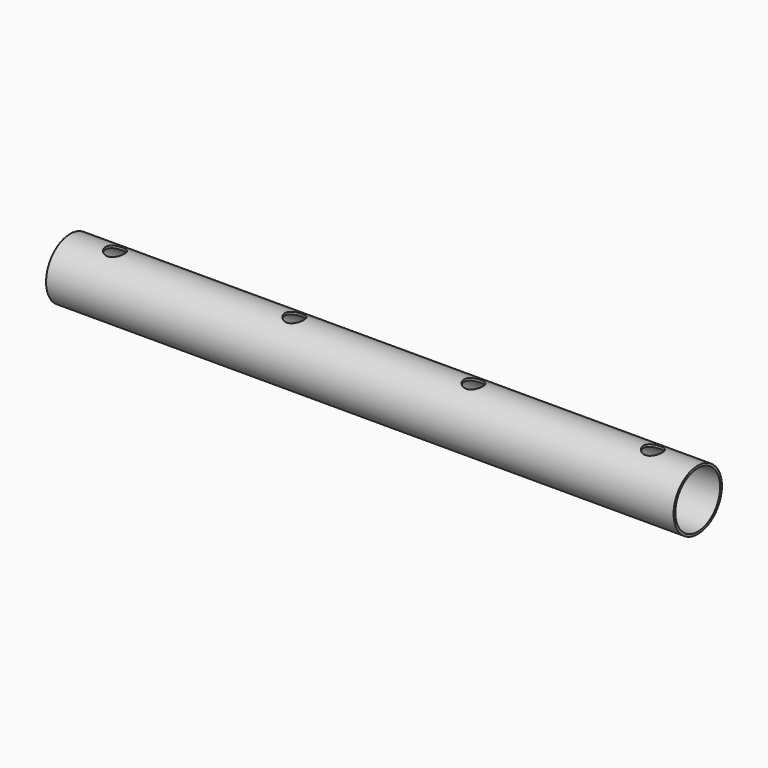
from build123d import *

# Parameters (mm, degrees)
F0_R     = 16.85
F0_R_2   = 15.6
F1_DEPTH = 350
F3_R     = 5.25
F4_DEPTH = 33.851


with BuildPart() as f1:
    # F0 (on Right) → F1 (new body)
    with BuildSketch(Plane.YZ):
        Circle(F0_R)
        Circle(F0_R_2, mode=Mode.SUBTRACT)
    extrude(amount=F1_DEPTH)

    # F3 (on offset) → F4 (cut, through all)
    with BuildSketch(Plane.XY.offset(17)):
        with Locations((25, 0)):
            Circle(F3_R)
        with Locations((125, 0)):
            Circle(F3_R)
        with Locations((325, 0)):
            Circle(F3_R)
        with Locations((225, 0)):
            Circle(F3_R)
    extrude(amount=-F4_DEPTH, mode=Mode.SUBTRACT)


solid = f1.part
